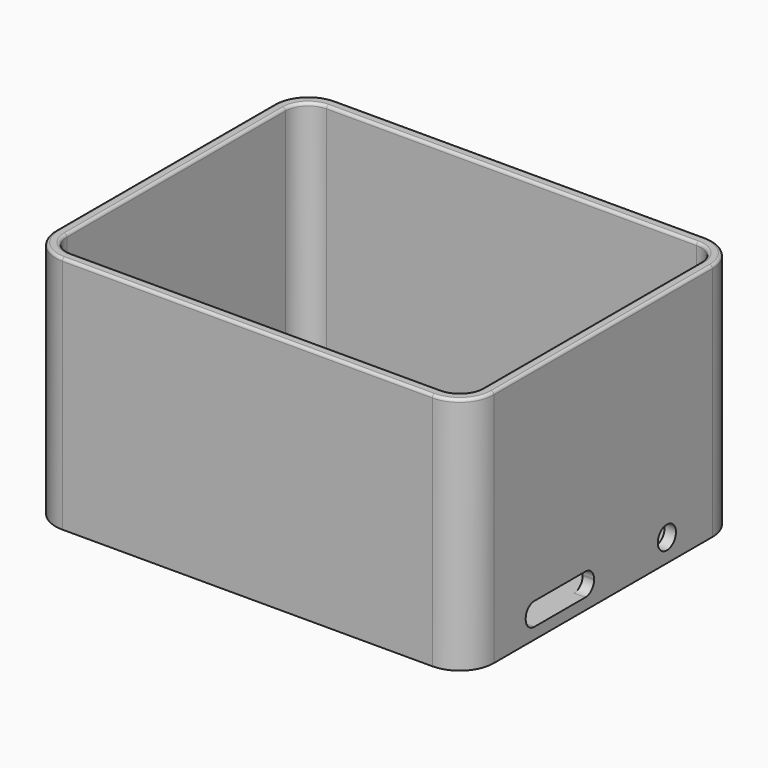
from build123d import *

# Parameters (mm, degrees)
CYLINDER011_R     = 1.4
CYLINDER011_DEPTH = 14
CYLINDER010_R     = 1.4
CYLINDER010_DEPTH = 14
CYLINDER009_R     = 1.4
CYLINDER009_DEPTH = 14
CYLINDER004_R     = 2
CYLINDER004_DEPTH = 40
CYLINDER005_R     = 2
CYLINDER005_DEPTH = 40
CYLINDER006_R     = 2
CYLINDER006_DEPTH = 40
CYLINDER007_R     = 2
CYLINDER007_DEPTH = 40
CYLINDER_R        = 2
CYLINDER_DEPTH    = 10
BOX004_W          = 2
BOX004_H          = 15
BOX004_DEPTH      = 4
FILLET002_R       = 1.9
BOX003_W          = 2
BOX003_H          = 15
BOX003_DEPTH      = 4
FILLET003_R       = 1.9
CYLINDER008_R     = 1.4
CYLINDER008_DEPTH = 14
BOX005_W          = 5
BOX005_H          = 5
BOX005_DEPTH      = 12
BOX006_W          = 5
BOX006_H          = 5
BOX006_DEPTH      = 12
BOX008_W          = 5
BOX008_H          = 5
BOX008_DEPTH      = 12
CYLINDER012_R     = 2
CYLINDER012_DEPTH = 10
BOX007_W          = 5
BOX007_H          = 12
BOX007_DEPTH      = 12
BOX_W             = 73
BOX_H             = 56
BOX_DEPTH         = 40
FILLET_R          = 4
BOX001_W          = 77
BOX001_H          = 60
BOX001_DEPTH      = 42
FILLET001_R       = 6
CHAMFER_SIZE      = 1
FILLET004_R       = 0.5


with BuildPart() as obj1:
    # Cylinder011 → Cylinder011 (new body)
    with BuildSketch(Plane(origin=(-28, -4.2, 0), x_dir=(1, 0, 0), z_dir=(0, 0, 1))):
        Circle(CYLINDER011_R)
    extrude(amount=CYLINDER011_DEPTH)


with BuildPart() as obj2:
    # Cylinder010 → Cylinder010 (new body)
    with BuildSketch(Plane(origin=(15.6, 8.4, 0), x_dir=(1, 0, 0), z_dir=(0, 0, 1))):
        Circle(CYLINDER010_R)
    extrude(amount=CYLINDER010_DEPTH)


with BuildPart() as obj3:
    # Cylinder009 → Cylinder009 (new body)
    with BuildSketch(Plane(origin=(15.6, -19, 0), x_dir=(1, 0, 0), z_dir=(0, 0, 1))):
        Circle(CYLINDER009_R)
    extrude(amount=CYLINDER009_DEPTH)


with BuildPart() as zylinder:
    # Cylinder004 → Cylinder004 (new body)
    with BuildSketch(Plane(origin=(32, 24, 0), x_dir=(1, 0, 0), z_dir=(0, 0, 1))):
        Circle(CYLINDER004_R)
    extrude(amount=CYLINDER004_DEPTH)


with BuildPart() as zylinder001:
    # Cylinder005 → Cylinder005 (new body)
    with BuildSketch(Plane(origin=(32, -24, 0), x_dir=(1, 0, 0), z_dir=(0, 0, 1))):
        Circle(CYLINDER005_R)
    extrude(amount=CYLINDER005_DEPTH)


with BuildPart() as zylinder002:
    # Cylinder006 → Cylinder006 (new body)
    with BuildSketch(Plane(origin=(-33, 24, 0), x_dir=(1, 0, 0), z_dir=(0, 0, 1))):
        Circle(CYLINDER006_R)
    extrude(amount=CYLINDER006_DEPTH)


with BuildPart() as zylinder003:
    # Cylinder007 → Cylinder007 (new body)
    with BuildSketch(Plane(origin=(-33, -24, 0), x_dir=(1, 0, 0), z_dir=(0, 0, 1))):
        Circle(CYLINDER007_R)
    extrude(amount=CYLINDER007_DEPTH)


with BuildPart() as zylinder004:
    # Cylinder → Cylinder (new body)
    with BuildSketch(Plane(origin=(32, 14, 4), x_dir=(0, 0, -1), z_dir=(1, 0, 0))):
        Circle(CYLINDER_R)
    extrude(amount=CYLINDER_DEPTH)


with BuildPart() as fillet002:
    # Box004 → Box004 (new body)
    with BuildSketch(Plane(origin=(-39, 1, 2), x_dir=(1, 0, 0), z_dir=(0, 0, 1))):
        with Locations((1, 7.5)):
            Rectangle(BOX004_W, BOX004_H)
    extrude(amount=BOX004_DEPTH)

    # Fillet002
    fillet002_edges = [fillet002.edges().sort_by_distance(p)[0] for p in [
        (-38, 1, 2),
        (-38, 1, 6),
        (-38, 16, 2),
        (-38, 16, 6),
    ]]
    fillet(fillet002_edges, radius=FILLET002_R)


with BuildPart() as fillet003:
    # Box003 → Box003 (new body)
    with BuildSketch(Plane(origin=(36, -17, 2), x_dir=(1, 0, 0), z_dir=(0, 0, 1))):
        with Locations((1, 7.5)):
            Rectangle(BOX003_W, BOX003_H)
    extrude(amount=BOX003_DEPTH)

    # Fillet003
    fillet003_edges = [fillet003.edges().sort_by_distance(p)[0] for p in [
        (37, -17, 2),
        (37, -17, 6),
        (37, -2, 2),
        (37, -2, 6),
    ]]
    fillet(fillet003_edges, radius=FILLET003_R)


with BuildPart() as fusion:
    # Cylinder008 → Cylinder008 (new body)
    with BuildSketch(Plane(origin=(-28, -19, 0), x_dir=(1, 0, 0), z_dir=(0, 0, 1))):
        Circle(CYLINDER008_R)
    extrude(amount=CYLINDER008_DEPTH)

    # Fusion: union obj1, obj2, obj3, Zylinder, Zylinder001, Zylinder002, Zylinder003, Zylinder004, Fillet002, Fillet003
    add(obj1.part)
    add(obj2.part)
    add(obj3.part)
    add(zylinder.part)
    add(zylinder001.part)
    add(zylinder002.part)
    add(zylinder003.part)
    add(zylinder004.part)
    add(fillet002.part)
    add(fillet003.part)


with BuildPart() as obj4:
    # Box005 → Box005 (new body)
    with BuildSketch(Plane(origin=(-30.5, -21.5, 0), x_dir=(1, 0, 0), z_dir=(0, 0, 1))):
        with Locations((2.5, 2.5)):
            Rectangle(BOX005_W, BOX005_H)
    extrude(amount=BOX005_DEPTH)


with BuildPart() as obj5:
    # Box006 → Box006 (new body)
    with BuildSketch(Plane(origin=(13.1, -21.5, 0), x_dir=(1, 0, 0), z_dir=(0, 0, 1))):
        with Locations((2.5, 2.5)):
            Rectangle(BOX006_W, BOX006_H)
    extrude(amount=BOX006_DEPTH)


with BuildPart() as obj6:
    # Box008 → Box008 (new body)
    with BuildSketch(Plane(origin=(-30.5, -6.6, 0), x_dir=(1, 0, 0), z_dir=(0, 0, 1))):
        with Locations((2.5, 2.5)):
            Rectangle(BOX008_W, BOX008_H)
    extrude(amount=BOX008_DEPTH)


with BuildPart() as zylinder005:
    # Cylinder012 → Cylinder012 (new body)
    with BuildSketch(Plane(origin=(11, 3, 4), x_dir=(0, 0, -1), z_dir=(1, 0, 0))):
        Circle(CYLINDER012_R)
    extrude(amount=CYLINDER012_DEPTH)


with BuildPart() as cut001:
    # Box007 → Box007 (new body)
    with BuildSketch(Plane(origin=(13.1, -1.1, 0), x_dir=(1, 0, 0), z_dir=(0, 0, 1))):
        with Locations((2.5, 6)):
            Rectangle(BOX007_W, BOX007_H)
    extrude(amount=BOX007_DEPTH)

    # Cut001: cut Zylinder005
    add(zylinder005.part, mode=Mode.SUBTRACT)


with BuildPart() as obj7:
    # Box → Box (new body)
    with BuildSketch(Plane(origin=(-37, -28, 2), x_dir=(1, 0, 0), z_dir=(0, 0, 1))):
        with Locations((36.5, 28)):
            Rectangle(BOX_W, BOX_H)
    extrude(amount=BOX_DEPTH)

    # Fillet
    fillet_edges = [obj7.edges().sort_by_distance(p)[0] for p in [
        (-37, -28, 22),
        (-37, 28, 22),
        (36, -28, 22),
        (36, 28, 22),
    ]]
    fillet(fillet_edges, radius=FILLET_R)


with BuildPart() as obj8:
    # Box001 → Box001 (new body)
    with BuildSketch(Plane(origin=(-39, -30, 0), x_dir=(1, 0, 0), z_dir=(0, 0, 1))):
        with Locations((38.5, 30)):
            Rectangle(BOX001_W, BOX001_H)
    extrude(amount=BOX001_DEPTH)

    # Fillet001
    fillet001_edges = [obj8.edges().sort_by_distance(p)[0] for p in [
        (-39, -30, 21),
        (-39, 30, 21),
        (38, -30, 21),
        (38, 30, 21),
    ]]
    fillet(fillet001_edges, radius=FILLET001_R)

    # Cut: cut obj7
    add(obj7.part, mode=Mode.SUBTRACT)

    # Fusion001: union obj4, obj5, obj6, Cut001
    add(obj4.part)
    add(obj5.part)
    add(obj6.part)
    add(cut001.part)

    # Cut002: cut Fusion
    add(fusion.part, mode=Mode.SUBTRACT)

    # Chamfer
    chamfer_edges = [obj8.edges().sort_by_distance(p)[0] for p in [
        (30, 24, 2),
        (-35, 24, 2),
        (-35, -24, 2),
        (30, -24, 2),
    ]]
    chamfer(chamfer_edges, length=CHAMFER_SIZE)

    # Fillet004
    fillet004_edges = [obj8.edges().sort_by_distance(p)[0] for p in [
        (-39, 0, 42),
        (-37.242641, -28.242641, 42),
        (-37.242641, 28.242641, 42),
        (-0.5, -30, 42),
        (-0.5, 30, 42),
        (36.242641, -28.242641, 42),
        (36.242641, 28.242641, 42),
        (38, 0, 42),
        (-37, 0, 42),
        (-35.828427, -26.828427, 42),
        (-0.5, -28, 42),
        (34.828427, -26.828427, 42),
        (-35.828427, 26.828427, 42),
        (36, 0, 42),
        (-0.5, 28, 42),
        (34.828427, 26.828427, 42),
    ]]
    fillet(fillet004_edges, radius=FILLET004_R)


solid = obj8.part
